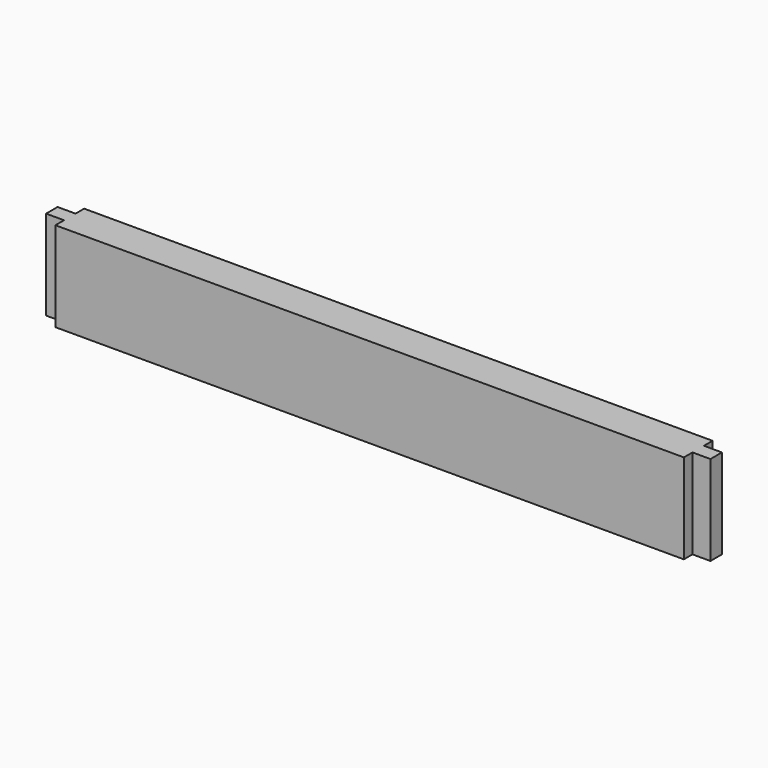
from build123d import *

# Parameters (mm, degrees)
F0_W     = 350
F0_H     = 50
F1_DEPTH = 20
F2_W     = 8
F2_H     = 50
F3_DEPTH = 10
F4_W     = 8
F4_H     = 50
F5_DEPTH = 10


with BuildPart() as f1:
    # F0 (on Front) → F1 (new body)
    with BuildSketch(Plane.XZ):
        Rectangle(F0_W, F0_H)
    extrude(amount=F1_DEPTH)

    # F2 (on face) → F3 (join)
    with BuildSketch(Plane(origin=(-175, 0, 0), x_dir=(0, -1, 0), z_dir=(-1, 0, 0))):
        with Locations((10, 0)):
            Rectangle(F2_W, F2_H)
    extrude(amount=F3_DEPTH)

    # F4 (on face) → F5 (join)
    with BuildSketch(Plane.YZ.offset(175)):
        with Locations((-10, 0)):
            Rectangle(F4_W, F4_H)
    extrude(amount=F5_DEPTH)


solid = f1.part
